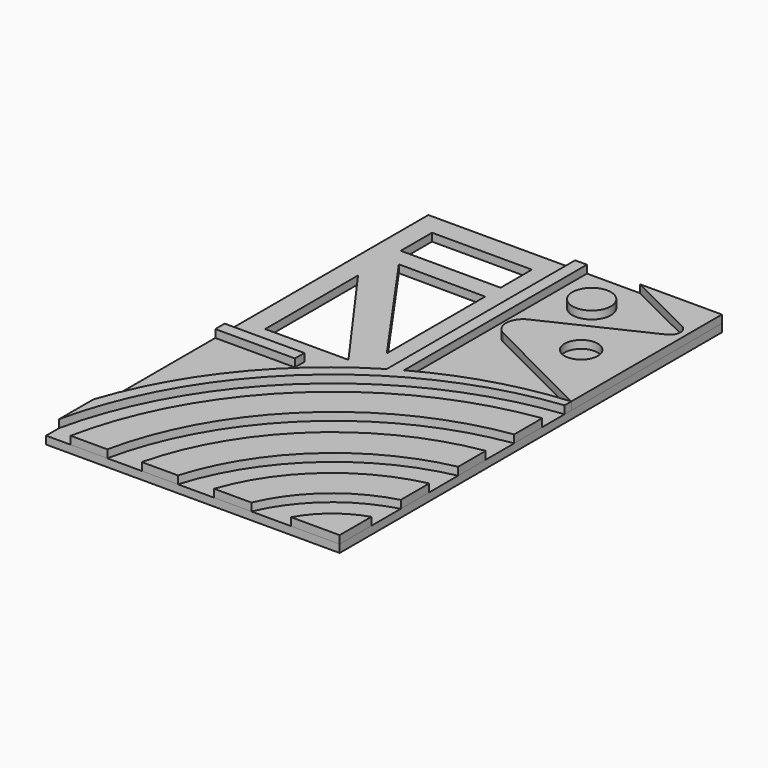
from build123d import *

# Parameters (mm, degrees)
F0_R     = 3.674578
F0_R_2   = 3.176801
F0_W     = 15.187611
F0_H     = 2.243437
F1_DEPTH = 1.5
F2_W     = 56
F2_H     = 91.1417
F3_DEPTH = 1.5
F4_W     = 19.058415
F4_H     = 7.459357
F5_DEPTH = 25


with BuildPart() as f1:
    # F0 (on Top) → F1 (new body)
    with BuildSketch(Plane.XY):
        with Locations((-23.677766, 27.635051)):
            Circle(F0_R)
        with BuildLine():
            Line((-5.448467, -55.242935), (-5.448467, -47.679409))
            ThreePointArc((-5.448467, -47.679409), (-10.806044, -50.580326), (-14.727656, -55.242935))
            Line((-14.727656, -55.242935), (-5.448467, -55.242935))
        make_face()
        with BuildLine():
            ThreePointArc((-22.282466, -55.242935), (-15.536918, -46.026435), (-5.448467, -40.672049))
            Line((-5.448467, -40.672049), (-5.448467, -33.883668))
            ThreePointArc((-5.448467, -33.883668), (-20.22782, -41.419164), (-29.399315, -55.242935))
            Line((-29.399315, -55.242935), (-22.282466, -55.242935))
        make_face()
        with BuildLine():
            ThreePointArc((-36.297187, -55.242935), (-24.768946, -36.860919), (-5.448467, -26.9858))
            Line((-5.448467, -26.9858), (-5.448467, -20.416399))
            ThreePointArc((-5.448467, -20.416399), (-29.576455, -32.134391), (-43.195058, -55.242935))
            Line((-43.195058, -55.242935), (-36.297187, -55.242935))
        make_face()
        with BuildLine():
            ThreePointArc((-49.764454, -55.242935), (-34.133993, -27.484267), (-5.448467, -13.628021))
            Line((-5.448467, -13.628021), (-5.448467, -6.949131))
            ThreePointArc((-5.448467, -6.949131), (-38.791205, -22.933125), (-56.771815, -55.242935))
            Line((-56.771815, -55.242935), (-49.764454, -55.242935))
        make_face()
        with BuildLine():
            Line((-27.00546, 10.785483), (-5.448467, 0))
            Line((-5.448467, 0), (-5.448467, 35.898765))
            Line((-5.448467, 35.898765), (-21.081116, 35.898765))
            Line((-21.081116, 35.898765), (-7.774128, 29.287666))
            ThreePointArc((-7.774128, 29.287666), (-6.672557, 27.510363), (-7.774128, 25.733059))
            Line((-7.774128, 25.733059), (-27.00546, 16.618684))
            ThreePointArc((-27.00546, 16.618684), (-28.85076, 13.702083), (-27.00546, 10.785483))
        make_face()
        with Locations((-14.707915, 13.916458)):
            Circle(F0_R_2, mode=Mode.SUBTRACT)
        with BuildLine():
            ThreePointArc((-61.448467, -52.127492), (-41.552769, -17.886139), (-5.448467, -1.613816))
            Line((-5.448467, -1.613816), (-5.448467, 0))
            ThreePointArc((-5.448467, 0), (-18.727632, -2.509739), (-31.194469, -7.726347))
            Line((-31.194469, -7.726347), (-31.194469, 35.898765))
            Line((-31.194469, 35.898765), (-33.448467, 35.898765))
            Line((-33.448467, 35.898765), (-33.448467, -9.020384))
            ThreePointArc((-33.448467, -9.020384), (-50.567629, -23.97688), (-61.448467, -43.936085))
            Line((-61.448467, -43.936085), (-61.448467, -52.127492))
        make_face()
        with Locations((-53.854661, -13.777627)):
            Rectangle(F0_W, F0_H)
    extrude(amount=F1_DEPTH)


with BuildPart() as f3:
    # F2 (on Top) → F3 (new body)
    with BuildSketch(Plane.XY):
        with Locations((-33.448467, -9.672085)):
            Rectangle(F2_W, F2_H)
    extrude(amount=-F3_DEPTH)

    # F4 (on Top) → F5 (cut)
    with BuildSketch(Plane.XY):
        with Locations((-47.919259, 28.044719)):
            Rectangle(F4_W, F4_H)
        Polygon((-38.390052, -2.830462), (-38.390052, 20.622665), (-54.945201, 20.737631), align=None)
        Polygon((-41.560765, -8.009771), (-57.448467, 14.137024), (-57.448467, -8.009771), align=None)
    extrude(amount=-F5_DEPTH, mode=Mode.SUBTRACT)


solid = Compound([f1.part, f3.part])
